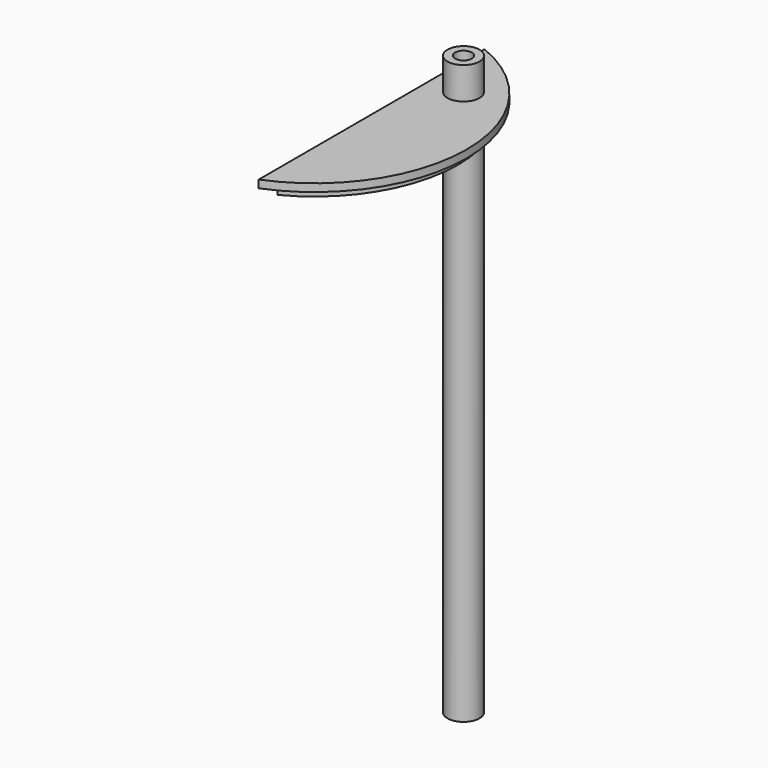
from build123d import *

# Parameters (mm, degrees)
F0_R     = 2.5
F1_DEPTH = 2.5
F0_R_2   = 1.3
F2_DEPTH = 7.5
F3_DEPTH = 90
F4_DEPTH = 1.3


with BuildPart() as f1:
    # F0 (on Top) → F1 (new body)
    with BuildSketch(Plane.XY):
        with BuildLine():
            Line((8.9, 21.9654273803), (8.9, -21.9654273803))
            ThreePointArc((8.9, -21.9654273803), (23.7, 0), (8.9, 21.9654273803))
        make_face()
        with BuildLine():
            ThreePointArc((10.2, 19.9429185427), (22.4, 0), (10.2, -19.9429185427))
            Line((10.2, -19.9429185427), (10.2, 19.9429185427))
        make_face(mode=Mode.SUBTRACT)
        with BuildLine():
            Line((10.2, 19.9429185427), (10.2, -19.9429185427))
            ThreePointArc((10.2, -19.9429185427), (22.4, 0), (10.2, 19.9429185427))
        make_face()
        with Locations((13.9515874907, 11.5695847198)):
            Circle(F0_R, mode=Mode.SUBTRACT)
    extrude(amount=F1_DEPTH)

    # F0 (on Top) → F2 (join)
    with BuildSketch(Plane.XY):
        with Locations((13.9515874907, 11.5695847198)):
            Circle(F0_R)
        with Locations((13.9515874907, 11.5695847198)):
            Circle(F0_R_2, mode=Mode.SUBTRACT)
    extrude(amount=F2_DEPTH)

    # F3 (add): a face of the model
    f3_faces = [f1.faces().sort_by_distance(p)[0] for p in [
        (11.5222981689, 11.5695847198, 7.5),
    ]]
    extrude(f3_faces, amount=-F3_DEPTH)

    # F0 (on Top) → F4 (cut)
    with BuildSketch(Plane.XY):
        with BuildLine():
            Line((8.9, 21.9654273803), (8.9, -21.9654273803))
            ThreePointArc((8.9, -21.9654273803), (23.7, 0), (8.9, 21.9654273803))
        make_face()
        with BuildLine():
            ThreePointArc((10.2, 19.9429185427), (22.4, 0), (10.2, -19.9429185427))
            Line((10.2, -19.9429185427), (10.2, 19.9429185427))
        make_face(mode=Mode.SUBTRACT)
    extrude(amount=F4_DEPTH, mode=Mode.SUBTRACT)


solid = f1.part
